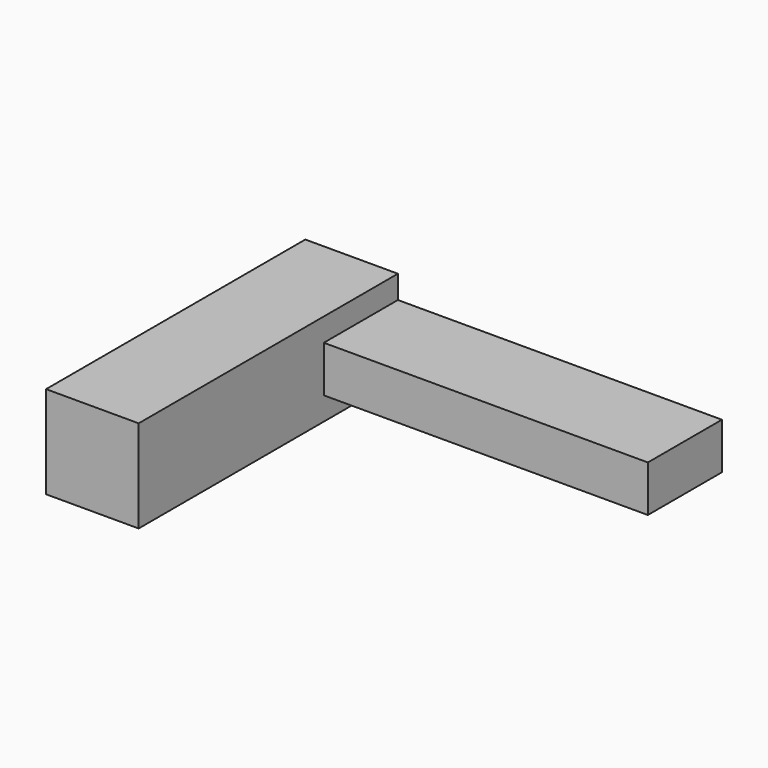
from build123d import *

# Parameters (mm, degrees)
F0_W     = 20
F0_H     = 70
F1_DEPTH = 20
F2_W     = 20
F2_H     = 10
F3_DEPTH = 70


with BuildPart() as f1:
    # F0 (on Top) → F1 (new body)
    with BuildSketch(Plane.XY):
        Rectangle(F0_W, F0_H)
    extrude(amount=F1_DEPTH)

    # F2 (on face) → F3 (join)
    with BuildSketch(Plane.YZ.offset(10)):
        with Locations((25, 10)):
            Rectangle(F2_W, F2_H)
    extrude(amount=F3_DEPTH)


solid = f1.part
